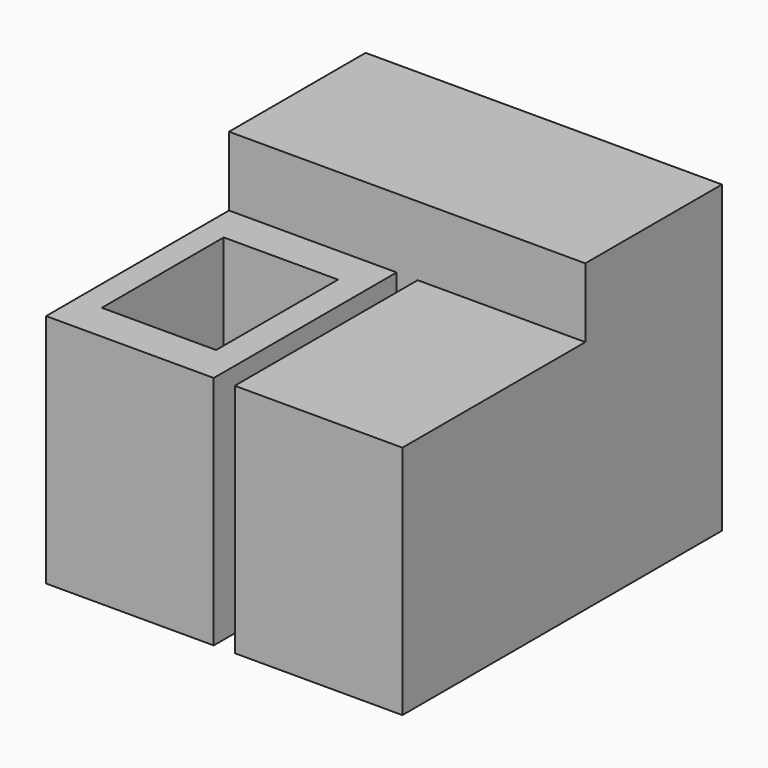
from build123d import *

# Parameters (mm, degrees)
F0_W     = 25.4
F0_H     = 31.1311839489
F0_H_2   = 33.6493795661
F1_DEPTH = 101.6
F2_W     = 55.88
F2_H     = 78.4819734454
F3_DEPTH = 76.2
F4_W     = 38.1
F4_H     = 25.4
F5_DEPTH = 50.8


with BuildPart() as f1:
    # F0 (on Top) → F1 (new body)
    with BuildSketch(Plane.XY):
        Polygon((50.8, 38.1), (50.8, 0), (67.9685074601, 0), (67.9685074601, 38.1), (80.6685074601, 38.1), (106.0685074601, 38.1), (118.7685074601, 38.1), (118.7685074601, 56.9148101586), (0, 56.9148101586), (0, 38.1), (12.7, 38.1), (38.1, 38.1), align=None)
        Polygon((67.9685074601, 38.1), (67.9685074601, 0), (118.7685074601, 0), (118.7685074601, 38.1), (106.0685074601, 38.1), (106.0685074601, 4.4506204339), (80.6685074601, 4.4506204339), (80.6685074601, 38.1), align=None)
        Polygon((0, 38.1), (0, 0), (50.8, 0), (50.8, 38.1), (38.1, 38.1), (38.1, 6.9688160511), (12.7, 6.9688160511), (12.7, 38.1), align=None)
        with Locations((25.4, 22.5344080255)):
            Rectangle(F0_W, F0_H)
        with Locations((93.3685074601, 21.2753102169)):
            Rectangle(F0_W, F0_H_2)
    extrude(amount=-F1_DEPTH)

    # F2 (on face) → F3 (join)
    with BuildSketch(Plane.XZ):
        with Locations((27.94, -62.3590132773)):
            Rectangle(F2_W, F2_H)
        with Locations((90.8285074601, -62.3590132773)):
            Rectangle(F2_W, F2_H)
    extrude(amount=F3_DEPTH)

    # F4 (on face) → F5 (cut)
    with BuildSketch(Plane.XY.offset(-23.1180265546)):
        with Locations((27.4676065892, -25.4)):
            Rectangle(F4_W, F4_H)
        with Locations((27.4676065892, -50.8)):
            Rectangle(F4_W, F4_H)
    extrude(amount=-F5_DEPTH, mode=Mode.SUBTRACT)


solid = f1.part
